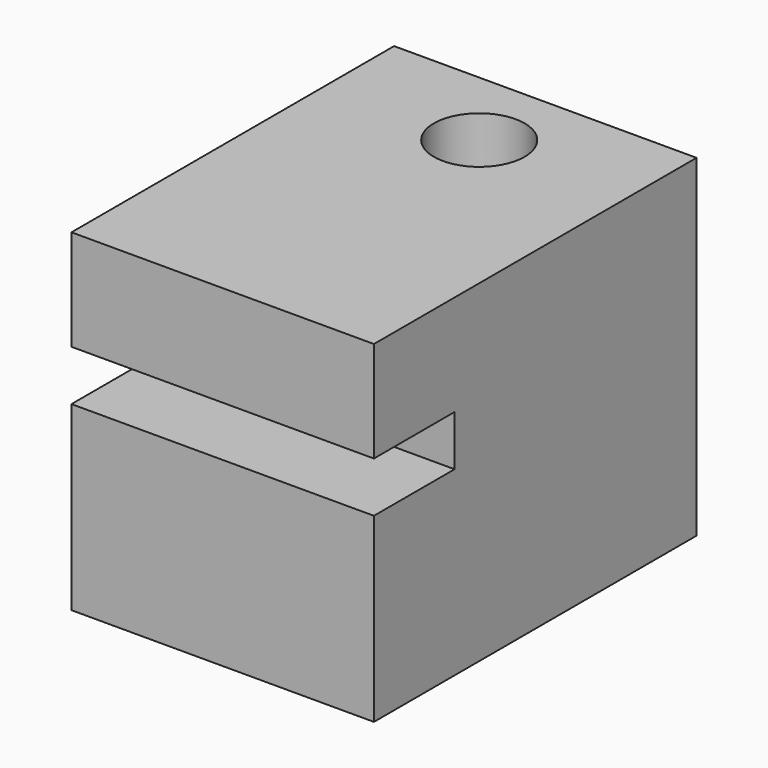
from build123d import *

# Parameters (mm, degrees)
F0_W     = 15
F0_H     = 15
F0_R     = 2.25
F1_DEPTH = 2.5
F2_W     = 15
F2_H     = 20
F2_R     = 2.25
F3_DEPTH = 5
F4_W     = 15
F4_H     = 20
F4_R     = 2.5
F5_DEPTH = 9


with BuildPart() as f1:
    # F0 (on Top) → F1 (new body)
    with BuildSketch(Plane.XY):
        with Locations((7.5, 7.5)):
            Rectangle(F0_W, F0_H)
        with Locations((7.5, 10.905)):
            Circle(F0_R, mode=Mode.SUBTRACT)
    extrude(amount=F1_DEPTH)

    # F2 (on face) → F3 (join)
    with BuildSketch(Plane.XY.offset(2.5)):
        with Locations((7.5, 5)):
            Rectangle(F2_W, F2_H)
        with Locations((7.5, 10.905)):
            Circle(F2_R, mode=Mode.SUBTRACT)
    extrude(amount=F3_DEPTH)

    # F4 (on face) → F5 (join)
    with BuildSketch(Plane(origin=(0, 0, 0), x_dir=(1, 0, 0), z_dir=(0, 0, -1))):
        with Locations((7.5, -5)):
            Rectangle(F4_W, F4_H)
        with Locations((7.5, -10.905)):
            Circle(F4_R, mode=Mode.SUBTRACT)
    extrude(amount=F5_DEPTH)


solid = f1.part
